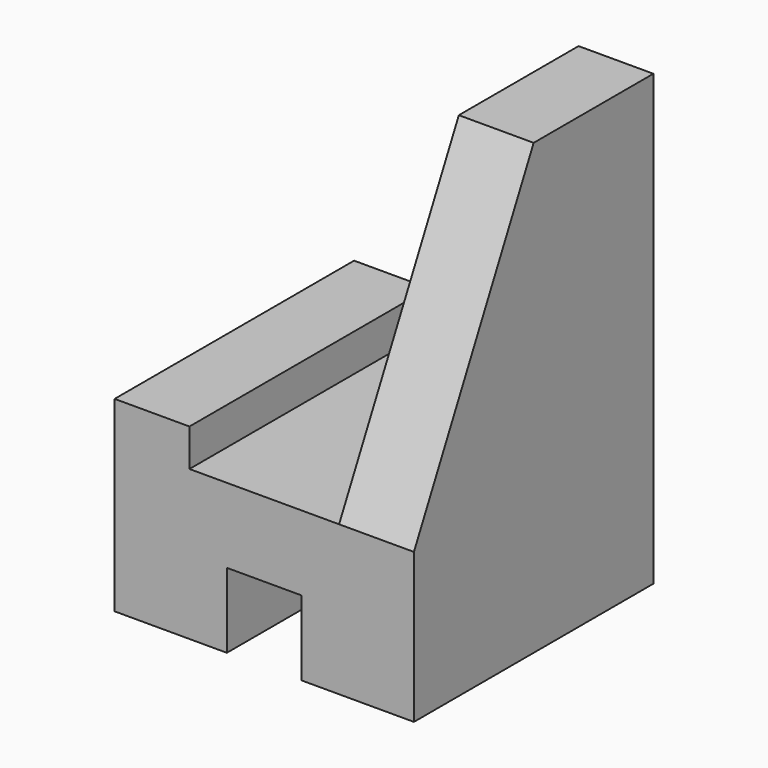
from build123d import *

# Parameters (mm, degrees)
F0_W     = 25.4
F0_H     = 101.6
F1_DEPTH = 101.6
F3_DEPTH = 25.4


with BuildPart() as f1:
    # F0 (on Front) → F1 (new body)
    with BuildSketch(Plane.XZ):
        Polygon((0, -50.8), (0, 0), (-25.4, 0), (-76.2, 0), (-76.2, 12.7), (-101.6, 12.7), (-101.6, -50.8), (-63.5, -50.8), (-63.5, -25.4), (-38.1, -25.4), (-38.1, -50.8), align=None)
        with Locations((-12.7, 50.8)):
            Rectangle(F0_W, F0_H)
    extrude(amount=F1_DEPTH)

    # F2 (on face) → F3 (cut)
    with BuildSketch(Plane.YZ):
        Polygon((-101.6, 0), (-50.8, 101.6), (-101.6, 101.6), align=None)
    extrude(amount=-F3_DEPTH, mode=Mode.SUBTRACT)


solid = f1.part
